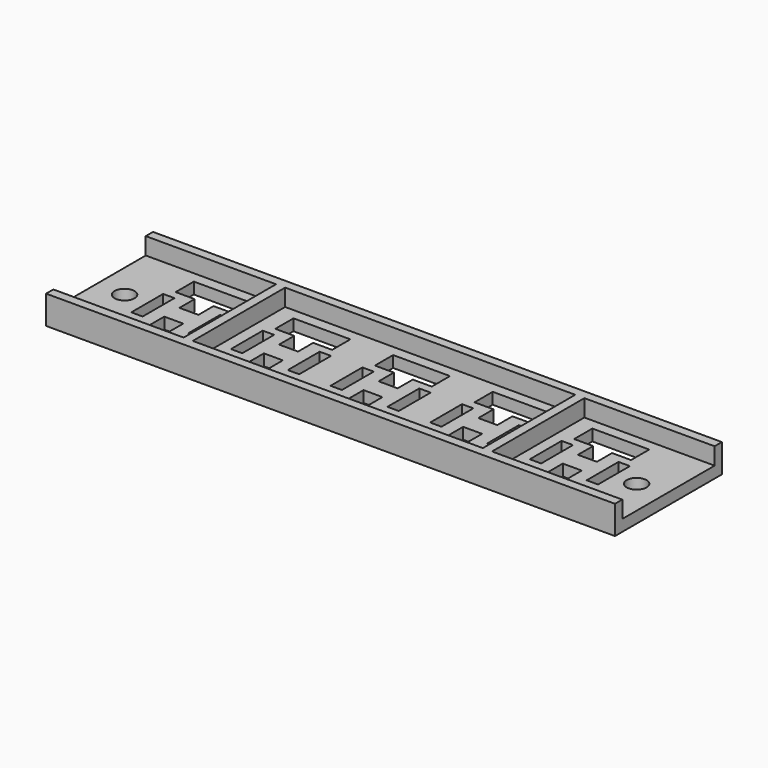
from build123d import *

# Parameters (mm, degrees)
SKETCH_W     = 100
SKETCH_H     = 23.5
SKETCH_R     = 1.75
SKETCH_W_2   = 2
SKETCH_H_2   = 7
SKETCH_W_3   = 3.333334
SKETCH_H_3   = 4
SKETCH_W_4   = 3.333333
PAD_DEPTH    = 2
SKETCH001_W  = 51
SKETCH001_H  = 20.3
PAD001_DEPTH = 5


with BuildPart() as part:
    # Sketch → Pad (new body)
    with BuildSketch(Plane.XY):
        with Locations((0, 0.75)):
            Rectangle(SKETCH_W, SKETCH_H)
        with Locations((-45, 0)):
            Circle(SKETCH_R, mode=Mode.SUBTRACT)
        with Locations((45, 0)):
            Circle(SKETCH_R, mode=Mode.SUBTRACT)
        Polygon((-39.999987, 8.970025), (-29.999987, 8.970025), (-29.999987, 4.970025), (-33.33332, 4.970025), (-33.33332, 1.636691), (-36.666654, 1.636691), (-36.666654, 4.970025), (-39.999987, 4.970025), align=None, mode=Mode.SUBTRACT)
        with Locations((-39.999987, -0.029975)):
            Rectangle(SKETCH_W_2, SKETCH_H_2, mode=Mode.SUBTRACT)
        with Locations((-29.999987, -0.029975)):
            Rectangle(SKETCH_W_2, SKETCH_H_2, mode=Mode.SUBTRACT)
        Polygon((-22.499994, 8.985012), (-12.499994, 8.985012), (-12.499994, 4.985012), (-15.833327, 4.985012), (-15.833327, 1.651679), (-19.16666, 1.651679), (-19.16666, 4.985012), (-22.499994, 4.985012), align=None, mode=Mode.SUBTRACT)
        with Locations((-22.499994, -0.014988)):
            Rectangle(SKETCH_W_2, SKETCH_H_2, mode=Mode.SUBTRACT)
        with Locations((-12.499994, -0.014988)):
            Rectangle(SKETCH_W_2, SKETCH_H_2, mode=Mode.SUBTRACT)
        Polygon((-5, 9), (5, 9), (5, 5), (1.666667, 5), (1.666667, 1.666667), (-1.666667, 1.666667), (-1.666667, 5), (-5, 5), align=None, mode=Mode.SUBTRACT)
        with Locations((-5, 0)):
            Rectangle(SKETCH_W_2, SKETCH_H_2, mode=Mode.SUBTRACT)
        with Locations((5, 0)):
            Rectangle(SKETCH_W_2, SKETCH_H_2, mode=Mode.SUBTRACT)
        Polygon((12.499994, 9.014988), (22.499994, 9.014988), (22.499994, 5.014988), (19.16666, 5.014988), (19.16666, 1.681654), (15.833327, 1.681654), (15.833327, 5.014988), (12.499994, 5.014988), align=None, mode=Mode.SUBTRACT)
        with Locations((12.499994, 0.014988)):
            Rectangle(SKETCH_W_2, SKETCH_H_2, mode=Mode.SUBTRACT)
        with Locations((22.499994, 0.014988)):
            Rectangle(SKETCH_W_2, SKETCH_H_2, mode=Mode.SUBTRACT)
        Polygon((29.999987, 9.029975), (39.999987, 9.029975), (39.999987, 5.029975), (36.666654, 5.029975), (36.666654, 1.696642), (33.33332, 1.696642), (33.33332, 5.029975), (29.999987, 5.029975), align=None, mode=Mode.SUBTRACT)
        with Locations((29.999987, 0.029975)):
            Rectangle(SKETCH_W_2, SKETCH_H_2, mode=Mode.SUBTRACT)
        with Locations((39.999987, 0.029975)):
            Rectangle(SKETCH_W_2, SKETCH_H_2, mode=Mode.SUBTRACT)
        with Locations((34.999987, -3.636691)):
            Rectangle(SKETCH_W_3, SKETCH_H_3, mode=Mode.SUBTRACT)
        with Locations((-34.999987, -3.696642)):
            Rectangle(SKETCH_W_3, SKETCH_H_3, mode=Mode.SUBTRACT)
        with Locations((-17.499993, -3.681654)):
            Rectangle(SKETCH_W_4, SKETCH_H_3, mode=Mode.SUBTRACT)
        with Locations((0, -3.666667)):
            Rectangle(SKETCH_W_3, SKETCH_H_3, mode=Mode.SUBTRACT)
        with Locations((17.499993, -3.651679)):
            Rectangle(SKETCH_W_4, SKETCH_H_3, mode=Mode.SUBTRACT)
    extrude(amount=PAD_DEPTH)

    # Sketch001 → Pad001 (join)
    with BuildSketch(Plane.XY):
        Polygon((-50, 12.5), (-50, 10.9), (-27.1, 10.9), (-27.1, -9.4), (-50, -9.4), (-50, -11), (50, -11), (50, -9.4), (27.1, -9.4), (27.1, 10.9), (50, 10.9), (50, 12.5), align=None)
        with Locations((0, 0.75)):
            Rectangle(SKETCH001_W, SKETCH001_H, mode=Mode.SUBTRACT)
    extrude(amount=PAD001_DEPTH)


solid = part.part
